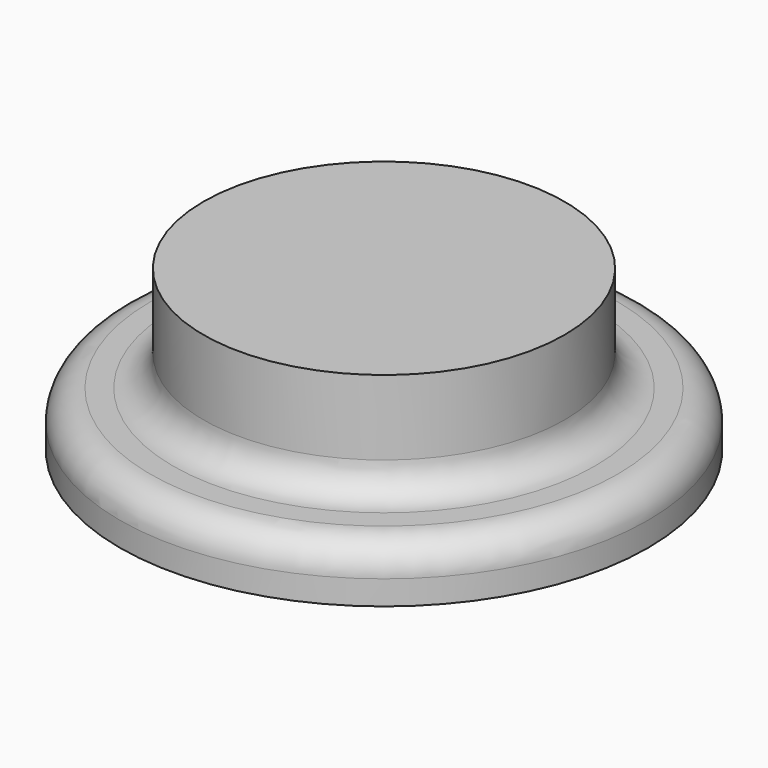
from build123d import *

# Parameters (mm, degrees)
F0_R     = 42.8133660757
F1_DEPTH = 25
F2_R     = 62.6286647671
F3_DEPTH = 13
F4_R     = 7.2426406871


with BuildPart() as f1:
    # F0 (on Top) → F1 (new body)
    with BuildSketch(Plane.XY):
        Circle(F0_R)
    extrude(amount=F1_DEPTH)

    # F2 (on Top) → F3 (join)
    with BuildSketch(Plane.XY):
        Circle(F2_R)
    extrude(amount=-F3_DEPTH)

    # F4
    f4_edges = [f1.edges().sort_by_distance(p)[0] for p in [
        (-62.628665, 0, 0),
        (-42.813366, 0, 0),
    ]]
    fillet(f4_edges, radius=F4_R)


solid = f1.part
